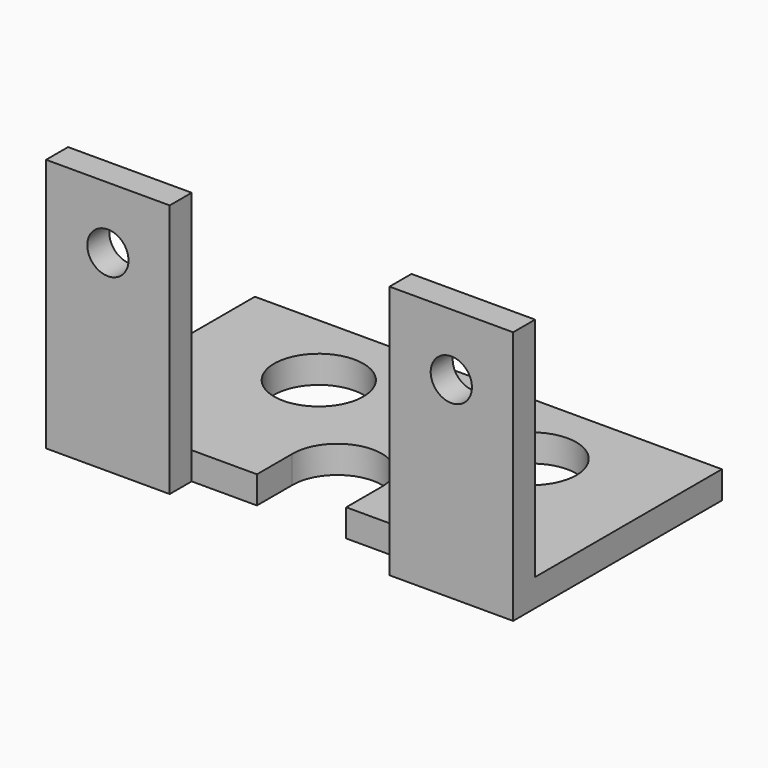
from build123d import *

# Parameters (mm, degrees)
BOX_W           = 34
BOX_H           = 17
BOX_DEPTH       = 2
SKETCH_R        = 3.25
POCKET_DEPTH    = 2
SKETCH001_W     = 6.498788
SKETCH001_H     = 3.187234
POCKET001_DEPTH = 2
SKETCH002_W     = 9
SKETCH002_H     = 2
PAD_DEPTH       = 2
SKETCH003_W     = 9
SKETCH003_H     = 2
PAD001_DEPTH    = 16.5
SKETCH004_R     = 1.5
POCKET002_DEPTH = 2


with BuildPart() as part:
    # Box → Box (new body)
    with BuildSketch(Plane.XY):
        with Locations((17, 8.5)):
            Rectangle(BOX_W, BOX_H)
    extrude(amount=BOX_DEPTH)

    # Sketch → Pocket (cut)
    with BuildSketch(Plane.XY.offset(2)):
        with Locations((9.25, 11.25)):
            Circle(SKETCH_R)
        with Locations((24.75, 11.25)):
            Circle(SKETCH_R)
        with Locations((17, 3.25)):
            Circle(SKETCH_R)
    extrude(amount=-POCKET_DEPTH, mode=Mode.SUBTRACT)

    # Sketch001 → Pocket001 (cut)
    with BuildSketch(Plane.XY.offset(2)):
        with Locations((17, 1.593617)):
            Rectangle(SKETCH001_W, SKETCH001_H)
    extrude(amount=-POCKET001_DEPTH, mode=Mode.SUBTRACT)

    # Sketch002 → Pad (new body)
    with BuildSketch(Plane.XZ):
        with Locations((4.5, 1)):
            Rectangle(SKETCH002_W, SKETCH002_H)
        with Locations((29.5, 1)):
            Rectangle(SKETCH002_W, SKETCH002_H)
    extrude(amount=PAD_DEPTH)

    # Sketch003 → Pad001 (new body)
    with BuildSketch(Plane.XY.offset(2)):
        with Locations((4.5, -1)):
            Rectangle(SKETCH003_W, SKETCH003_H)
        with Locations((29.5, -1)):
            Rectangle(SKETCH003_W, SKETCH003_H)
    extrude(amount=PAD001_DEPTH)

    # Sketch004 → Pocket002 (cut)
    with BuildSketch(Plane.XZ.offset(2)):
        with Locations((4.5, 14)):
            Circle(SKETCH004_R)
        with Locations((29.5, 14)):
            Circle(SKETCH004_R)
    extrude(amount=-POCKET002_DEPTH, mode=Mode.SUBTRACT)


solid = part.part
